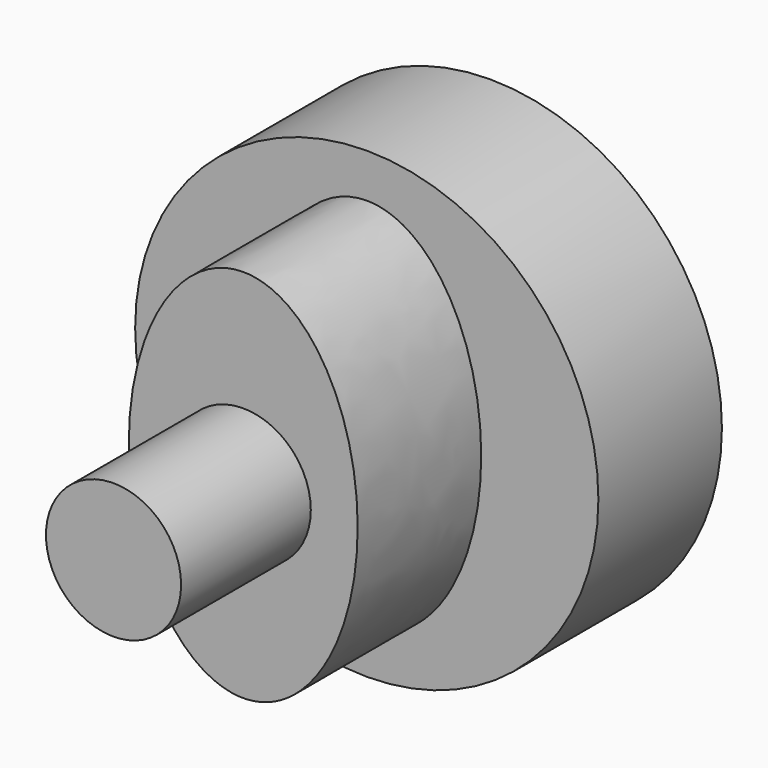
from build123d import *

# Parameters (mm, degrees)
F0_R     = 30
F1_DEPTH = 20
F3_DEPTH = 20
F4_R     = 8.751701
F5_DEPTH = 21


with BuildPart() as f1:
    # F0 (on Front) → F1 (new body)
    with BuildSketch(Plane.XZ):
        Circle(F0_R)
    extrude(amount=F1_DEPTH)

    # F2 (on face) → F3 (join)
    with BuildSketch(Plane.XZ.offset(20)):
        with BuildLine():
            add(Edge.make_bspline(
                [(0, 24.298338), (-25.676575, 24.298338), (-12.838288, -12.149169), (0, -48.596676), (12.838288, -12.149169), (25.676575, 24.298338), (0, 24.298338)],
                knots=[0, 0, 0, 2.094395, 2.094395, 4.18879, 4.18879, 6.283185, 6.283185, 6.283185], degree=2, weights=[1, 0.5, 1, 0.5, 1, 0.5, 1]))
        make_face()
    extrude(amount=F3_DEPTH)

    # F4 (on face) → F5 (join)
    with BuildSketch(Plane.XZ.offset(40)):
        Circle(F4_R)
    extrude(amount=F5_DEPTH)


solid = f1.part
